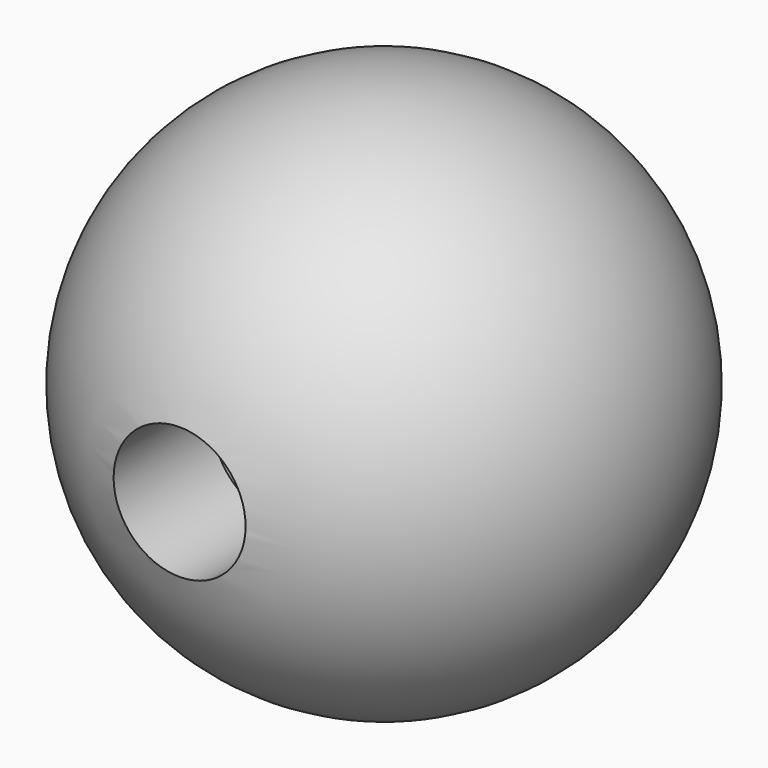
from build123d import *

# Parameters (mm, degrees)
F4_R     = 3.175
F5_DEPTH = 6.35
F7_R     = 3.175
F8_DEPTH = 9.525


with BuildPart() as f2:
    # F0 (on Front) → F2 (revolve)
    with BuildSketch(Plane.XZ):
        with BuildLine():
            Line((0, -12.7), (0, 12.7))
            ThreePointArc((0, 12.7), (-12.7, 0), (0, -12.7))
        make_face()
    revolve(axis=Axis((0, 0, 0), (0, 0, 1)))

    # F4 (on offset) → F5 (cut)
    with BuildSketch(Plane.XZ.offset(12.7)):
        Circle(F4_R)
    extrude(amount=-F5_DEPTH, mode=Mode.SUBTRACT)


with BuildPart() as f8:
    # F7 (on offset) → F8 (new body)
    with BuildSketch(Plane.XZ.offset(-12.7)):
        Circle(F7_R)
    extrude(amount=F8_DEPTH)


solid = f2.part
